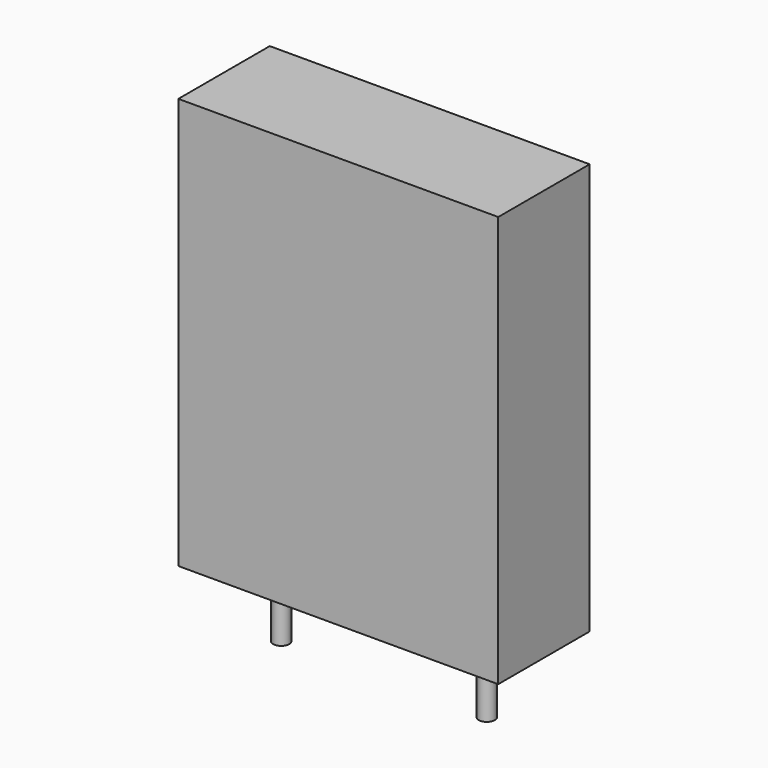
from build123d import *

# Parameters (mm, degrees)
SKETCH_W     = 14
SKETCH_H     = 5
PAD_DEPTH    = 18
SKETCH001_R  = 0.35
PAD001_DEPTH = 3.5


with BuildPart() as pad:
    # Sketch → Pad (new body)
    with BuildSketch(Plane.XY.offset(0.1)):
        with Locations((4.5, 0)):
            Rectangle(SKETCH_W, SKETCH_H)
    extrude(amount=PAD_DEPTH)


with BuildPart() as pad001:
    # Sketch001 → Pad001 (new body)
    with BuildSketch(Plane.XY.offset(0.5)):
        Circle(SKETCH001_R)
        with Locations((9, 0)):
            Circle(SKETCH001_R)
    extrude(amount=-PAD001_DEPTH)


solid = Compound([pad.part, pad001.part])
